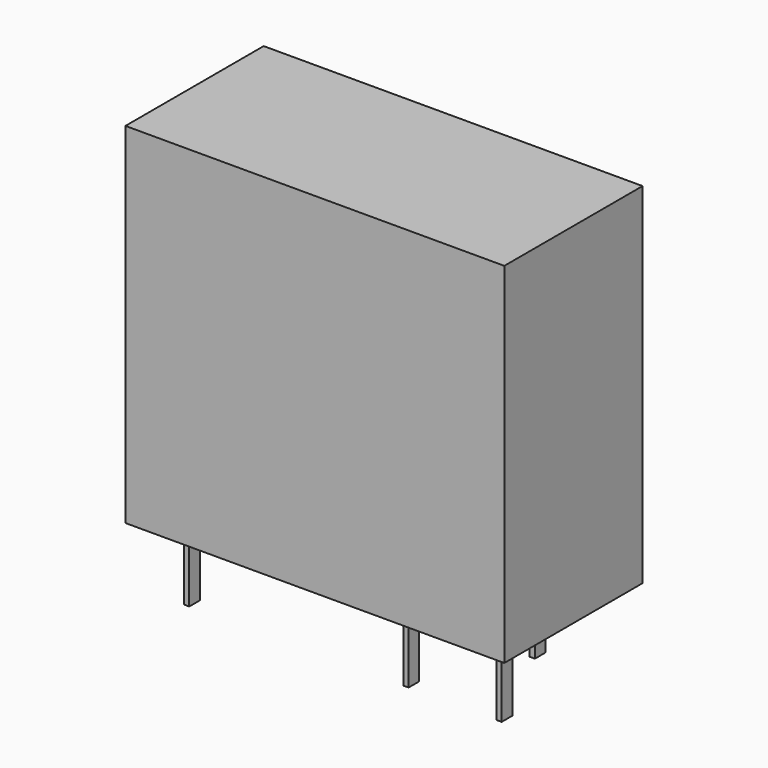
from build123d import *

# Parameters (mm, degrees)
SKETCH006_W   = 28.5
SKETCH006_H   = 26.3
SKETCH006_W_2 = 27.5
SKETCH006_H_2 = 25.3
PAD002_DEPTH  = 12
SKETCH007_W   = 28.5
SKETCH007_H   = 26.3
SKETCH007_W_2 = 28
SKETCH007_H_2 = 25.8
POCKET_DEPTH  = 6
SKETCH005_W   = 28.5
SKETCH005_H   = 26.3
PAD001_DEPTH  = 0.5
SKETCH002_W   = 3.7
SKETCH002_H   = 16
SKETCH003_W   = 4
SKETCH003_H   = 0.25
SKETCH004_W   = 4
SKETCH004_H   = 0.25
SKETCH_W      = 1
SKETCH_H      = 0.4
PAD_DEPTH     = 5.8
SKETCH009_W   = 28.5
SKETCH009_H   = 26.3
SKETCH009_W_2 = 28.02
SKETCH009_H_2 = 25.82
PAD004_DEPTH  = 6
SKETCH010_W   = 28.5
SKETCH010_H   = 26.3
PAD005_DEPTH  = 0.5


with BuildPart() as pocket:
    # Sketch006 → Pad002 (new body)
    with BuildSketch(Plane.XZ.offset(9.5)):
        with Locations((11.25, 13.15)):
            Rectangle(SKETCH006_W, SKETCH006_H)
        with Locations((11.25, 13.15)):
            Rectangle(SKETCH006_W_2, SKETCH006_H_2, mode=Mode.SUBTRACT)
    extrude(amount=-PAD002_DEPTH)

    # Sketch007 → Pocket (cut)
    with BuildSketch(Plane(origin=(0, 2.5, 0), x_dir=(1, 0, 0), z_dir=(0, 1, 0))):
        with Locations((11.25, -13.15)):
            Rectangle(SKETCH007_W, SKETCH007_H)
        with Locations((11.25, -13.15)):
            Rectangle(SKETCH007_W_2, SKETCH007_H_2, mode=Mode.SUBTRACT)
    extrude(amount=-POCKET_DEPTH, mode=Mode.SUBTRACT)


with BuildPart() as pad001:
    # Sketch005 → Pad001 (new body)
    with BuildSketch(Plane.XZ.offset(10)):
        with Locations((11.25, 13.15)):
            Rectangle(SKETCH005_W, SKETCH005_H)
    extrude(amount=-PAD001_DEPTH)


with BuildPart() as revolution:
    # Sketch002 → Revolution (revolve)
    with BuildSketch(Plane(origin=(0, -3.75, 0), x_dir=(-1, 0, 0), z_dir=(0, 1, 0))):
        with Locations((-2.15, 12.25)):
            Rectangle(SKETCH002_W, SKETCH002_H)
    revolve(axis=Axis((4, -3.75, 21.020615), (0, 0, -1)))


with BuildPart() as revolution001:
    # Sketch003 → Revolution001 (revolve)
    with BuildSketch(Plane(origin=(0, -3.75, 0), x_dir=(-1, 0, 0), z_dir=(0, 1, 0))):
        with Locations((-1.981829, 4.125)):
            Rectangle(SKETCH003_W, SKETCH003_H)
    revolve(axis=Axis((3.981829, -3.75, 21.020615), (0, 0, -1)))


with BuildPart() as revolution002:
    # Sketch004 → Revolution002 (revolve)
    with BuildSketch(Plane(origin=(0, -3.75, 0), x_dir=(-1, 0, 0), z_dir=(0, 1, 0))):
        with Locations((-2, 20.375)):
            Rectangle(SKETCH004_W, SKETCH004_H)
    revolve(axis=Axis((4, -3.75, 21.020615), (0, 0, -1)))


with BuildPart() as pad:
    # Sketch → Pad (new body)
    with BuildSketch(Plane(origin=(0, -7.5, 0.5), x_dir=(0, 1, 0), z_dir=(0, 0, 1))):
        Rectangle(SKETCH_W, SKETCH_H)
        with Locations((7.5, 0)):
            Rectangle(SKETCH_W, SKETCH_H)
        with Locations((0, -16.5)):
            Rectangle(SKETCH_W, SKETCH_H)
        with Locations((0, -23.5)):
            Rectangle(SKETCH_W, SKETCH_H)
        with Locations((7.5, -20)):
            Rectangle(SKETCH_W, SKETCH_H)
    extrude(amount=-PAD_DEPTH)


with BuildPart() as obj1:
    # Sketch009 → Pad004 (new body)
    with BuildSketch(Plane.XZ.offset(3.5)):
        with Locations((11.25, 13.15)):
            Rectangle(SKETCH009_W, SKETCH009_H)
        with Locations((11.25, 13.15)):
            Rectangle(SKETCH009_W_2, SKETCH009_H_2, mode=Mode.SUBTRACT)
    extrude(amount=-PAD004_DEPTH)

    # Sketch010 → Pad005 (new body)
    with BuildSketch(Plane(origin=(0, 2.5, 0), x_dir=(1, 0, 0), z_dir=(0, 1, 0))):
        with Locations((11.25, -13.15)):
            Rectangle(SKETCH010_W, SKETCH010_H)
    extrude(amount=PAD005_DEPTH)

    # obj1: union Pocket, Pad001, Revolution, Revolution001, Revolution002, Pad
    add(pocket.part)
    add(pad001.part)
    add(revolution.part)
    add(revolution001.part)
    add(revolution002.part)
    add(pad.part)


solid = obj1.part
